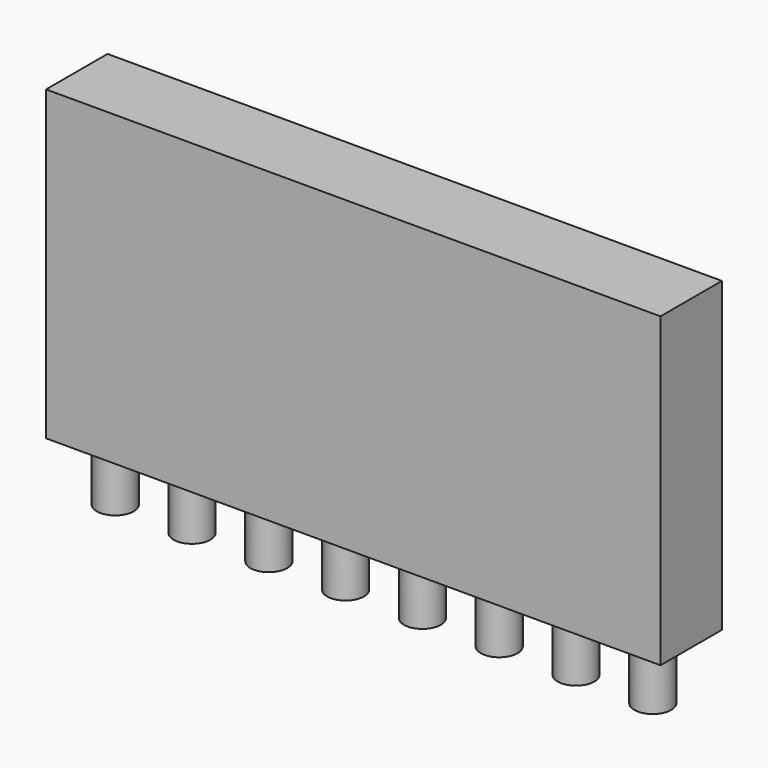
from build123d import *

# Parameters (mm, degrees)
F0_W     = 50.8
F0_H     = 25.4
F1_DEPTH = 6.35
F2_R     = 1.524
F3_DEPTH = 5.08


with BuildPart() as f1:
    # F0 (on Front) → F1 (new body)
    with BuildSketch(Plane.XZ):
        Rectangle(F0_W, F0_H)
    extrude(amount=F1_DEPTH)

    # F2 (on face) → F3 (join)
    with BuildSketch(Plane(origin=(0, 0, -12.7), x_dir=(1, 0, 0), z_dir=(0, 0, -1))):
        with BuildLine():
            ThreePointArc((-23.749, 3.175), (-22.225, 1.651), (-20.701, 3.175))
            ThreePointArc((-20.701, 3.175), (-22.225, 4.699), (-23.749, 3.175))
        make_face()
        with Locations((-15.875, 3.175)):
            Circle(F2_R)
        with Locations((-9.525, 3.175)):
            Circle(F2_R)
        with Locations((-3.175, 3.175)):
            Circle(F2_R)
        with Locations((3.175, 3.175)):
            Circle(F2_R)
        with Locations((9.525, 3.175)):
            Circle(F2_R)
        with Locations((15.875, 3.175)):
            Circle(F2_R)
        with Locations((22.225, 3.175)):
            Circle(F2_R)
    extrude(amount=F3_DEPTH)


solid = f1.part
